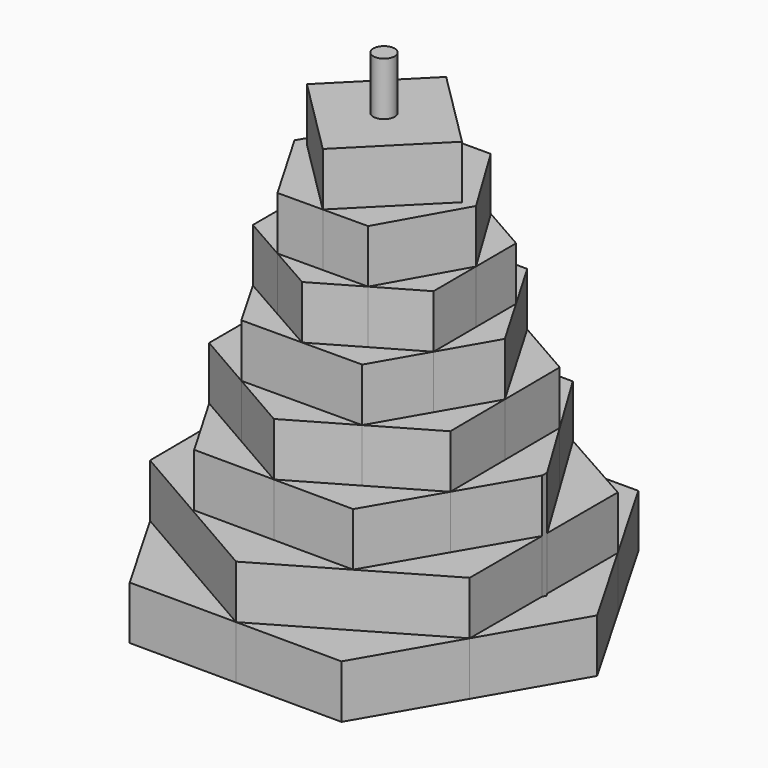
from build123d import *

# Parameters (mm, degrees)
F0_R     = 2.54
F1_DEPTH = 114.3
F2_DEPTH = 101.6
F3_DEPTH = 88.9
F4_DEPTH = 76.2
F5_DEPTH = 63.5
F6_DEPTH = 50.8
F7_DEPTH = 38.1
F8_DEPTH = 25.4
F9_DEPTH = 12.7


with BuildPart() as f1:
    # F0 (on Top) → F1 (new body)
    with BuildSketch(Plane.XY):
        Polygon((0.0297449546, -44.0977803999), (-37.9594102152, -22.2405539065), (-25.4, -43.9940905122), align=None)
        Polygon((38.0476643122, -22.0353334131), (0.0297449546, -44.0977803999), (25.2201944386, -44.2004945593), align=None)
        Polygon((-0.3350584157, 43.6933898381), (-38.2585494002, 21.7224296395), (-37.9594102152, -22.2405539065), (0.0297449546, -44.0977803999), (38.0476643122, -22.0353334131), (38.0572074327, -0.4624397172), (28.8234651499, -16.2822326428), (19.0586446504, -33.011900152), (0.0689860095, -32.9213402193), (-18.9618453465, -32.8305839378), (-28.4762239518, -16.497728885), (-38.0503063303, -0.0623833689), (-28.5255642951, 16.434953765), (-19.0890015805, 32.7795598355), (-0.3579905366, 32.7538269983), (-0.029694677, 32.9440250808), (0.3047047711, 32.7529165813), (18.8090625796, 32.7274951224), (28.6237113617, 16.568670808), (38.0578704177, 1.0362842578), (38.0671679073, 22.0539121087), align=None)
        Polygon((19.0586446504, -33.011900152), (28.8234651499, -16.2822326428), (14.47040053, -24.5877973202), (0.0689860095, -32.9213402193), align=None)
        Polygon((-18.9618453465, -32.8305839378), (0.0689860095, -32.9213402193), (-14.2417858933, -24.6875750467), (-28.4762239518, -16.497728885), align=None)
        Polygon((0.0689860095, -32.9213402193), (14.47040053, -24.5877973202), (0.1916506856, -24.6374174075), (-14.2417858933, -24.6875750467), align=None)
        Polygon((-14.2417858933, -24.6875750467), (0.1916506856, -24.6374174075), (-10.5802674086, -18.5155618092), (-21.3309908039, -12.4057515018), align=None)
        Polygon((-10.5802674086, -18.5155618092), (0.1916506856, -24.6374174075), (10.9436599796, -18.4137225871), (0.1816962855, -18.4646421982), align=None)
        Polygon((0.1916506856, -24.6374174075), (14.47040053, -24.5877973202), (21.6005177699, -12.2451052788), (10.9436599796, -18.4137225871), align=None)
        Polygon((10.9436599796, -18.4137225871), (21.6005177699, -12.2451052788), (21.5605416369, 0.4568982525), align=None)
        Polygon((10.9436599796, -18.4137225871), (21.5605416369, 0.4568982525), (10.5746748077, 18.5706432099), (-0.029694677, 18.5608677566), (18.5890194076, 0.010555068), (0.1816962855, -18.4646421982), align=None)
        Polygon((14.47040053, -24.5877973202), (28.8234651499, -16.2822326428), (28.7239362394, 0.0859907596), (21.6005177699, -12.2451052788), align=None)
        Polygon((21.6005177699, -12.2451052788), (28.7239362394, 0.0859907596), (21.5228505909, 12.4328389883), (21.5605416369, 0.4568982525), align=None)
        Polygon((38.0572074327, -0.4624397172), (38.0578704177, 1.0362842578), (28.6237113617, 16.568670808), (28.7239362394, 0.0859907596), (28.8234651499, -16.2822326428), align=None)
        Polygon((28.7239362394, 0.0859907596), (28.6237113617, 16.568670808), (14.3545600969, 24.7234572518), (21.5228505909, 12.4328389883), align=None)
        Polygon((14.3545600969, 24.7234572518), (28.6237113617, 16.568670808), (18.8090625796, 32.7274951224), (0.3047047711, 32.7529165813), align=None)
        Polygon((-28.5255642951, 16.434953765), (-0.3579905366, 32.7538269983), (-19.0890015805, 32.7795598355), align=None)
        Polygon((0.0185433098, 24.7241456127), (14.3545600969, 24.7234572518), (0.3047047711, 32.7529165813), (-0.3579905366, 32.7538269983), (-28.5255642951, 16.434953765), (-28.5009651241, 0.0160024937), (-21.37674811, 12.3222678023), (-14.1967849419, 24.7248281787), (0.0124332375, 24.7241459061), (0.0154661396, 24.7259044438), align=None)
        Polygon((-10.6340641617, 18.5510923033), (0.0124332375, 24.7241459061), (-14.1967849419, 24.7248281787), (-21.37674811, 12.3222678023), align=None)
        Polygon((-21.3540038347, 0.0308781616), (-10.6340641617, 18.5510923033), (-21.37674811, 12.3222678023), align=None)
        Polygon((-21.3540038347, 0.0308781616), (-10.5802674086, -18.5155618092), (0.1816962855, -18.4646421982), (-18.437017799, 0.0856704905), (-0.029694677, 18.5608677566), (-10.6340641617, 18.5510923033), align=None)
        Polygon((-18.437017799, 0.0856704905), (0.1816962855, -18.4646421982), (18.5890194076, 0.010555068), (-0.029694677, 18.5608677566), align=None)
        Circle(F0_R, mode=Mode.SUBTRACT)
        Circle(F0_R)
        Polygon((21.5228505909, 12.4328389883), (14.3545600969, 24.7234572518), (0.0185433098, 24.7241456127), align=None)
        Polygon((21.5228505909, 12.4328389883), (0.0185433098, 24.7241456127), (0.0124332375, 24.7241459061), (-10.6340641617, 18.5510923033), (-0.029694677, 18.5608677566), (10.5746748077, 18.5706432099), (21.5605416369, 0.4568982525), align=None)
        Polygon((-28.5009651241, 0.0160024937), (-28.5255642951, 16.434953765), (-38.0503063303, -0.0623833689), (-28.4762239518, -16.497728885), align=None)
        Polygon((-28.4762239518, -16.497728885), (-14.2417858933, -24.6875750467), (-21.3309908039, -12.4057515018), (-28.5009651241, 0.0160024937), align=None)
        Polygon((-28.5009651241, 0.0160024937), (-21.3309908039, -12.4057515018), (-21.3540038347, 0.0308781616), (-21.37674811, 12.3222678023), align=None)
        Polygon((-21.3309908039, -12.4057515018), (-10.5802674086, -18.5155618092), (-21.3540038347, 0.0308781616), align=None)
        Polygon((-37.9594102152, -22.2405539065), (-38.2585494002, 21.7224296395), (-50.8, 0), align=None)
        Polygon((50.8, 0), (38.0671679073, 22.0539121087), (38.0578704177, 1.0362842578), (38.503626573, 0.3023919341), (38.0572074327, -0.4624397172), (38.0476643122, -22.0353334131), align=None)
        Polygon((25.4, 43.9940905122), (-25.4, 43.9940905122), (-38.2585494002, 21.7224296395), (-0.3350584157, 43.6933898381), (38.0671679073, 22.0539121087), align=None)
    extrude(amount=-F1_DEPTH)

    # F0 (on Top) → F2 (cut)
    with BuildSketch(Plane.XY):
        Polygon((25.4, 43.9940905122), (-25.4, 43.9940905122), (-38.2585494002, 21.7224296395), (-0.3350584157, 43.6933898381), (38.0671679073, 22.0539121087), align=None)
        Polygon((38.0476643122, -22.0353334131), (0.0297449546, -44.0977803999), (25.2201944386, -44.2004945593), align=None)
        Polygon((0.0297449546, -44.0977803999), (-37.9594102152, -22.2405539065), (-25.4, -43.9940905122), align=None)
        Polygon((-37.9594102152, -22.2405539065), (-38.2585494002, 21.7224296395), (-50.8, 0), align=None)
        Polygon((50.8, 0), (38.0671679073, 22.0539121087), (38.0578704177, 1.0362842578), (38.503626573, 0.3023919341), (38.0572074327, -0.4624397172), (38.0476643122, -22.0353334131), align=None)
    extrude(amount=-F2_DEPTH, mode=Mode.SUBTRACT)

    # F0 (on Top) → F3 (cut)
    with BuildSketch(Plane.XY):
        Polygon((-0.3350584157, 43.6933898381), (-38.2585494002, 21.7224296395), (-37.9594102152, -22.2405539065), (0.0297449546, -44.0977803999), (38.0476643122, -22.0353334131), (38.0572074327, -0.4624397172), (28.8234651499, -16.2822326428), (19.0586446504, -33.011900152), (0.0689860095, -32.9213402193), (-18.9618453465, -32.8305839378), (-28.4762239518, -16.497728885), (-38.0503063303, -0.0623833689), (-28.5255642951, 16.434953765), (-19.0890015805, 32.7795598355), (-0.3579905366, 32.7538269983), (-0.029694677, 32.9440250808), (0.3047047711, 32.7529165813), (18.8090625796, 32.7274951224), (28.6237113617, 16.568670808), (38.0578704177, 1.0362842578), (38.0671679073, 22.0539121087), align=None)
    extrude(amount=-F3_DEPTH, mode=Mode.SUBTRACT)

    # F0 (on Top) → F4 (cut)
    with BuildSketch(Plane.XY):
        Polygon((-18.9618453465, -32.8305839378), (0.0689860095, -32.9213402193), (-14.2417858933, -24.6875750467), (-28.4762239518, -16.497728885), align=None)
        Polygon((19.0586446504, -33.011900152), (28.8234651499, -16.2822326428), (14.47040053, -24.5877973202), (0.0689860095, -32.9213402193), align=None)
        Polygon((38.0572074327, -0.4624397172), (38.0578704177, 1.0362842578), (28.6237113617, 16.568670808), (28.7239362394, 0.0859907596), (28.8234651499, -16.2822326428), align=None)
        Polygon((14.3545600969, 24.7234572518), (28.6237113617, 16.568670808), (18.8090625796, 32.7274951224), (0.3047047711, 32.7529165813), align=None)
        Polygon((-28.5255642951, 16.434953765), (-0.3579905366, 32.7538269983), (-19.0890015805, 32.7795598355), align=None)
        Polygon((-28.5009651241, 0.0160024937), (-28.5255642951, 16.434953765), (-38.0503063303, -0.0623833689), (-28.4762239518, -16.497728885), align=None)
    extrude(amount=-F4_DEPTH, mode=Mode.SUBTRACT)

    # F0 (on Top) → F5 (cut)
    with BuildSketch(Plane.XY):
        Polygon((0.0185433098, 24.7241456127), (14.3545600969, 24.7234572518), (0.3047047711, 32.7529165813), (-0.3579905366, 32.7538269983), (-28.5255642951, 16.434953765), (-28.5009651241, 0.0160024937), (-21.37674811, 12.3222678023), (-14.1967849419, 24.7248281787), (0.0124332375, 24.7241459061), (0.0154661396, 24.7259044438), align=None)
        Polygon((28.7239362394, 0.0859907596), (28.6237113617, 16.568670808), (14.3545600969, 24.7234572518), (21.5228505909, 12.4328389883), align=None)
        Polygon((14.47040053, -24.5877973202), (28.8234651499, -16.2822326428), (28.7239362394, 0.0859907596), (21.6005177699, -12.2451052788), align=None)
        Polygon((0.0689860095, -32.9213402193), (14.47040053, -24.5877973202), (0.1916506856, -24.6374174075), (-14.2417858933, -24.6875750467), align=None)
        Polygon((-28.4762239518, -16.497728885), (-14.2417858933, -24.6875750467), (-21.3309908039, -12.4057515018), (-28.5009651241, 0.0160024937), align=None)
    extrude(amount=-F5_DEPTH, mode=Mode.SUBTRACT)

    # F0 (on Top) → F6 (cut)
    with BuildSketch(Plane.XY):
        Polygon((-10.6340641617, 18.5510923033), (0.0124332375, 24.7241459061), (-14.1967849419, 24.7248281787), (-21.37674811, 12.3222678023), align=None)
        Polygon((21.5228505909, 12.4328389883), (14.3545600969, 24.7234572518), (0.0185433098, 24.7241456127), align=None)
        Polygon((-28.5009651241, 0.0160024937), (-21.3309908039, -12.4057515018), (-21.3540038347, 0.0308781616), (-21.37674811, 12.3222678023), align=None)
        Polygon((-14.2417858933, -24.6875750467), (0.1916506856, -24.6374174075), (-10.5802674086, -18.5155618092), (-21.3309908039, -12.4057515018), align=None)
        Polygon((0.1916506856, -24.6374174075), (14.47040053, -24.5877973202), (21.6005177699, -12.2451052788), (10.9436599796, -18.4137225871), align=None)
        Polygon((21.6005177699, -12.2451052788), (28.7239362394, 0.0859907596), (21.5228505909, 12.4328389883), (21.5605416369, 0.4568982525), align=None)
    extrude(amount=-F6_DEPTH, mode=Mode.SUBTRACT)

    # F0 (on Top) → F7 (cut)
    with BuildSketch(Plane.XY):
        Polygon((-21.3540038347, 0.0308781616), (-10.6340641617, 18.5510923033), (-21.37674811, 12.3222678023), align=None)
        Polygon((21.5228505909, 12.4328389883), (0.0185433098, 24.7241456127), (0.0124332375, 24.7241459061), (-10.6340641617, 18.5510923033), (-0.029694677, 18.5608677566), (10.5746748077, 18.5706432099), (21.5605416369, 0.4568982525), align=None)
        Polygon((10.9436599796, -18.4137225871), (21.6005177699, -12.2451052788), (21.5605416369, 0.4568982525), align=None)
        Polygon((-10.5802674086, -18.5155618092), (0.1916506856, -24.6374174075), (10.9436599796, -18.4137225871), (0.1816962855, -18.4646421982), align=None)
        Polygon((-21.3309908039, -12.4057515018), (-10.5802674086, -18.5155618092), (-21.3540038347, 0.0308781616), align=None)
    extrude(amount=-F7_DEPTH, mode=Mode.SUBTRACT)

    # F0 (on Top) → F8 (cut)
    with BuildSketch(Plane.XY):
        Polygon((-21.3540038347, 0.0308781616), (-10.5802674086, -18.5155618092), (0.1816962855, -18.4646421982), (-18.437017799, 0.0856704905), (-0.029694677, 18.5608677566), (-10.6340641617, 18.5510923033), align=None)
        Polygon((10.9436599796, -18.4137225871), (21.5605416369, 0.4568982525), (10.5746748077, 18.5706432099), (-0.029694677, 18.5608677566), (18.5890194076, 0.010555068), (0.1816962855, -18.4646421982), align=None)
    extrude(amount=-F8_DEPTH, mode=Mode.SUBTRACT)

    # F0 (on Top) → F9 (cut)
    with BuildSketch(Plane.XY):
        Polygon((-18.437017799, 0.0856704905), (0.1816962855, -18.4646421982), (18.5890194076, 0.010555068), (-0.029694677, 18.5608677566), align=None)
        Circle(F0_R, mode=Mode.SUBTRACT)
    extrude(amount=-F9_DEPTH, mode=Mode.SUBTRACT)


solid = f1.part
